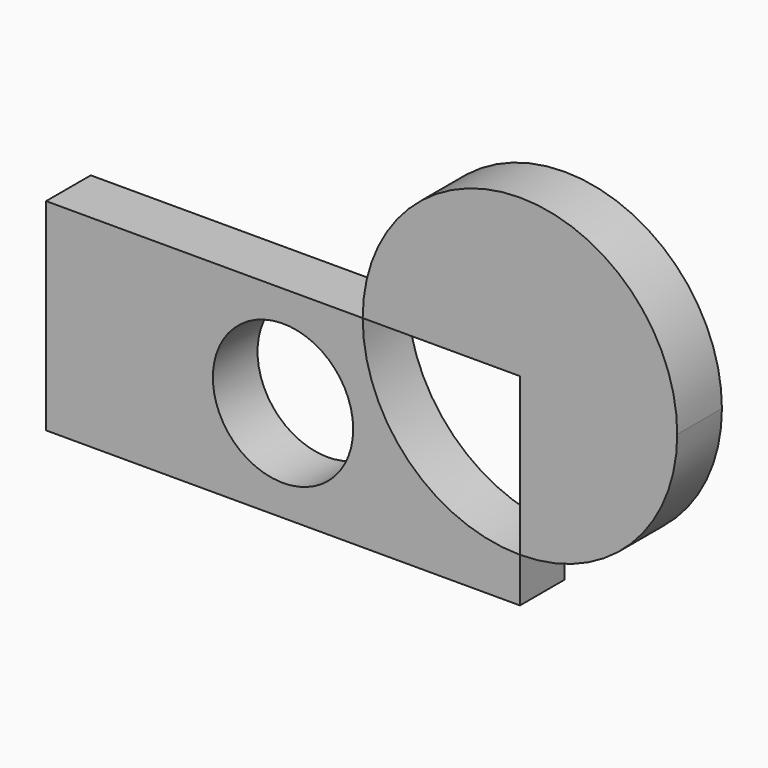
from build123d import *

# Parameters (mm, degrees)
F0_R     = 31.914954
F1_DEPTH = 25.4


with BuildPart() as f1:
    # F0 (on Front) → F1 (new body)
    with BuildSketch(Plane.XZ):
        with BuildLine():
            ThreePointArc((-14.688512, -59.743724), (-65.274295, -38.790406), (-86.227612, 11.795376))
            Line((-86.227612, 11.795376), (-230.232912, 11.795376))
            Line((-230.232912, 11.795376), (-230.232912, -80.025624))
            Line((-230.232912, -80.025624), (-14.688512, -80.025624))
            Line((-14.688512, -80.025624), (-14.688512, -59.743724))
        make_face()
        with Locations((-122.460712, -34.115124)):
            Circle(F0_R, mode=Mode.SUBTRACT)
        with BuildLine():
            Line((-86.227612, 11.795376), (-14.688512, 11.795376))
            Line((-14.688512, 11.795376), (-14.688512, -59.743724))
            ThreePointArc((-14.688512, -59.743724), (35.897271, -38.790406), (56.850588, 11.795376))
            ThreePointArc((56.850588, 11.795376), (-14.688512, 83.334476), (-86.227612, 11.795376))
        make_face()
    extrude(amount=F1_DEPTH)


solid = f1.part
